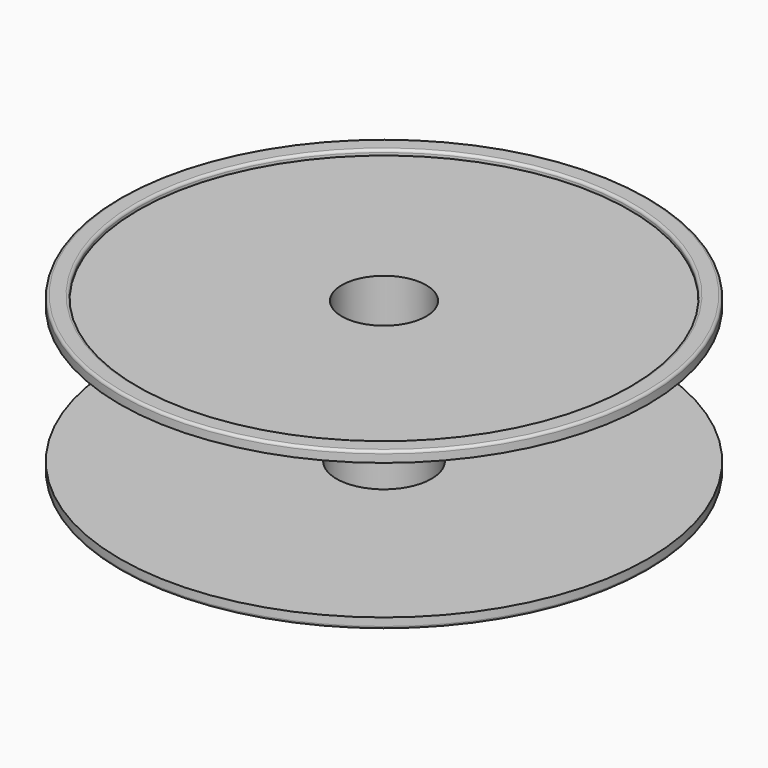
from build123d import *

# Parameters (mm, degrees)
F0_R      = 100
F1_DEPTH  = 2
F2_R      = 100
F2_R_2    = 93
F3_DEPTH  = 2
F4_R      = 18
F5_DEPTH  = 51.5
F6_R      = 100
F7_DEPTH  = 2
F8_R      = 100
F8_R_2    = 93
F9_DEPTH  = 2
F10_R     = 1
F11_R     = 16
F12_DEPTH = 69


with BuildPart() as f1:
    # F0 (on Top) → F1 (new body)
    with BuildSketch(Plane.XY):
        Circle(F0_R)
    extrude(amount=F1_DEPTH)

    # F4 (on face) → F5 (join)
    with BuildSketch(Plane(origin=(0, 0, 0), x_dir=(1, 0, 0), z_dir=(0, 0, -1))):
        Circle(F4_R)
    extrude(amount=F5_DEPTH)



with BuildPart() as f3:
    # F2 (on face) → F3 (new body)
    with BuildSketch(Plane(origin=(0, 0, -53.5), x_dir=(1, 0, 0), z_dir=(0, 0, -1))):
        Circle(F2_R)
        Circle(F2_R_2, mode=Mode.SUBTRACT)
    extrude(amount=F3_DEPTH)


with BuildPart() as f1_1:
    add(f1.part)

    add(f3.part)  # F7 merges F3
    # F6 (on face) → F7 (join)
    with BuildSketch(Plane(origin=(0, 0, -51.5), x_dir=(1, 0, 0), z_dir=(0, 0, -1))):
        Circle(F6_R)
    extrude(amount=F7_DEPTH)

    # F8 (on face) → F9 (join)
    with BuildSketch(Plane.XY.offset(2)):
        Circle(F8_R)
        Circle(F8_R_2, mode=Mode.SUBTRACT)
    extrude(amount=F9_DEPTH)

    # F10
    f10_edges = [f1_1.edges().sort_by_distance(p)[0] for p in [
        (-93, 0, -55.5),
        (-100, 0, -55.5),
        (-93, 0, 4),
        (-100, 0, 4),
    ]]
    fillet(f10_edges, radius=F10_R)

    # F11 (on face) → F12 (cut)
    with BuildSketch(Plane(origin=(0, 0, -53.5), x_dir=(1, 0, 0), z_dir=(0, 0, -1))):
        Circle(F11_R)
    extrude(amount=-F12_DEPTH, mode=Mode.SUBTRACT)


solid = f1_1.part
